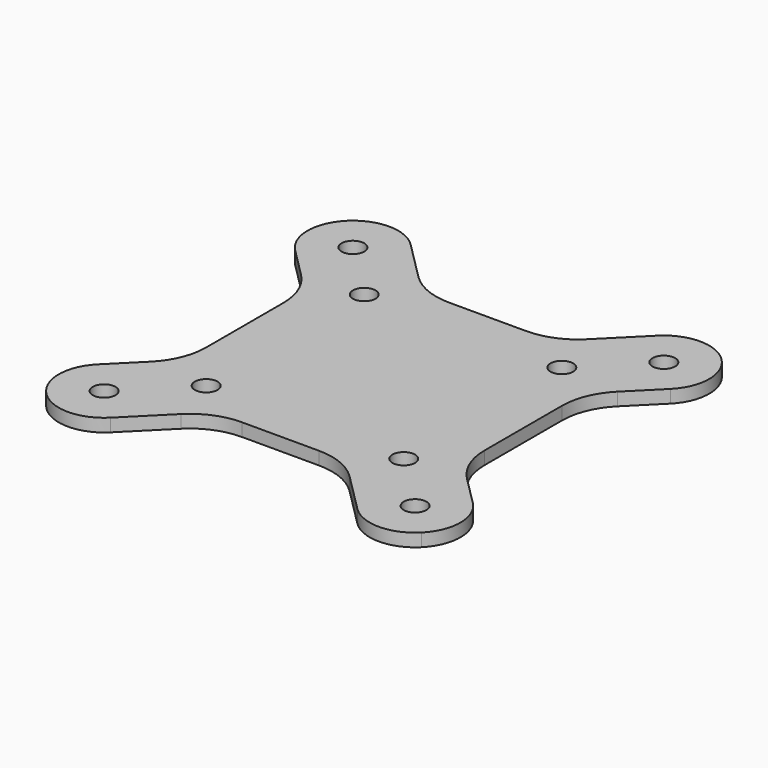
from build123d import *

# Parameters (mm, degrees)
F0_R     = 1.75
F1_DEPTH = 2


with BuildPart() as f1:
    # F0 (on Top) → F1 (new body)
    with BuildSketch(Plane.XY):
        with BuildLine():
            ThreePointArc((-28.949747, 28.949747), (-31, 24), (-28.949747, 19.050253))
            Line((-28.949747, 19.050253), (-24.428932, 14.529437))
            ThreePointArc((-24.428932, 14.529437), (-22.261205, 11.285204), (-21.5, 7.458369))
            Line((-21.5, 7.458369), (-21.5, 0))
            Line((-21.5, 0), (-21.5, -7.458369))
            ThreePointArc((-21.5, -7.458369), (-22.261205, -11.285204), (-24.428932, -14.529437))
            Line((-24.428932, -14.529437), (-28.949747, -19.050253))
            ThreePointArc((-28.949747, -19.050253), (-31, -24), (-28.949747, -28.949747))
            ThreePointArc((-28.949747, -28.949747), (-24, -31), (-19.050253, -28.949747))
            Line((-19.050253, -28.949747), (-13.029437, -22.928932))
            ThreePointArc((-13.029437, -22.928932), (-9.785204, -20.761205), (-5.958369, -20))
            Line((-5.958369, -20), (0, -20))
            Line((0, -20), (5.958369, -20))
            ThreePointArc((5.958369, -20), (9.785204, -20.761205), (13.029437, -22.928932))
            Line((13.029437, -22.928932), (19.050253, -28.949747))
            ThreePointArc((19.050253, -28.949747), (24, -31), (28.949747, -28.949747))
            ThreePointArc((28.949747, -28.949747), (31, -24), (28.949747, -19.050253))
            Line((28.949747, -19.050253), (24.428932, -14.529437))
            ThreePointArc((24.428932, -14.529437), (22.261205, -11.285204), (21.5, -7.458369))
            Line((21.5, -7.458369), (21.5, 0))
            Line((21.5, 0), (21.5, 7.458369))
            ThreePointArc((21.5, 7.458369), (22.261205, 11.285204), (24.428932, 14.529437))
            Line((24.428932, 14.529437), (28.949747, 19.050253))
            ThreePointArc((28.949747, 19.050253), (31, 24), (28.949747, 28.949747))
            ThreePointArc((28.949747, 28.949747), (24, 31), (19.050253, 28.949747))
            Line((19.050253, 28.949747), (13.029437, 22.928932))
            ThreePointArc((13.029437, 22.928932), (9.785204, 20.761205), (5.958369, 20))
            Line((5.958369, 20), (0, 20))
            Line((0, 20), (-5.958369, 20))
            ThreePointArc((-5.958369, 20), (-9.785204, 20.761205), (-13.029437, 22.928932))
            Line((-13.029437, 22.928932), (-19.050253, 28.949747))
            ThreePointArc((-19.050253, 28.949747), (-24, 31), (-28.949747, 28.949747))
        make_face()
        with Locations((-24, -24)):
            Circle(F0_R, mode=Mode.SUBTRACT)
        with Locations((-15.25, -15.25)):
            Circle(F0_R, mode=Mode.SUBTRACT)
        with Locations((24, -24)):
            Circle(F0_R, mode=Mode.SUBTRACT)
        with Locations((15.25, -15.25)):
            Circle(F0_R, mode=Mode.SUBTRACT)
        with Locations((-15.25, 15.25)):
            Circle(F0_R, mode=Mode.SUBTRACT)
        with Locations((-24, 24)):
            Circle(F0_R, mode=Mode.SUBTRACT)
        with Locations((15.25, 15.25)):
            Circle(F0_R, mode=Mode.SUBTRACT)
        with Locations((24, 24)):
            Circle(F0_R, mode=Mode.SUBTRACT)
    extrude(amount=F1_DEPTH)


solid = f1.part
